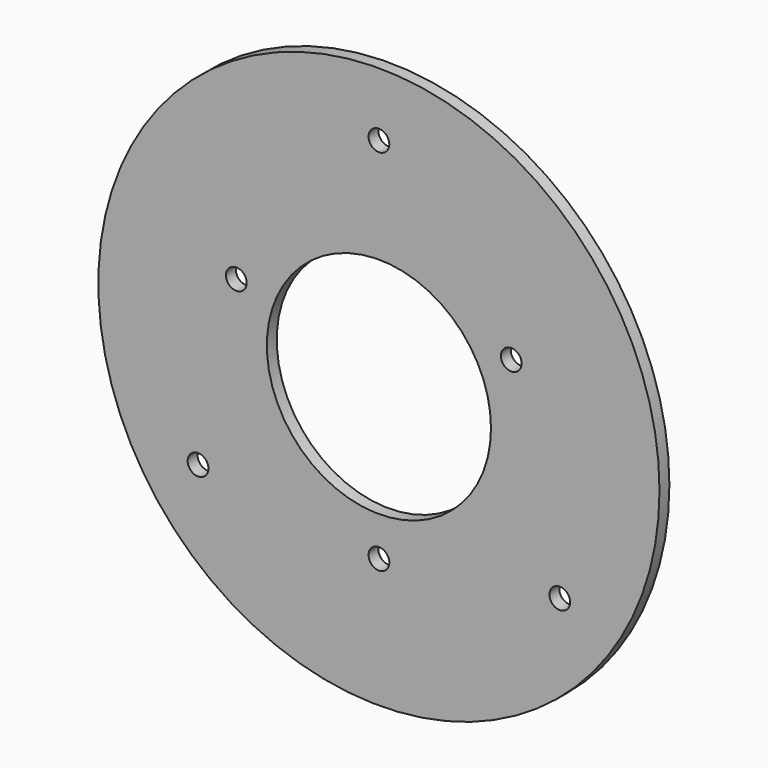
from build123d import *

# Parameters (mm, degrees)
F0_R     = 40.386
F0_R_2   = 16.129
F1_DEPTH = 1.778
F3_D     = 2.9845


with BuildPart() as f1:
    # F0 (on Front) → F1 (new body)
    with BuildSketch(Plane.XZ):
        Circle(F0_R)
        Circle(F0_R_2, mode=Mode.SUBTRACT)
    extrude(amount=F1_DEPTH)

    # F3 (through all)
    with Locations(Plane.XZ.offset(1.778)):
        with Locations((0, 31.2166), (19.05, 9.6266), (26.035, -18.3388), (0, -21.7932), (-26.035, -18.3388), (-20.5232, 6.9723)):
            Hole(F3_D / 2)


solid = f1.part
